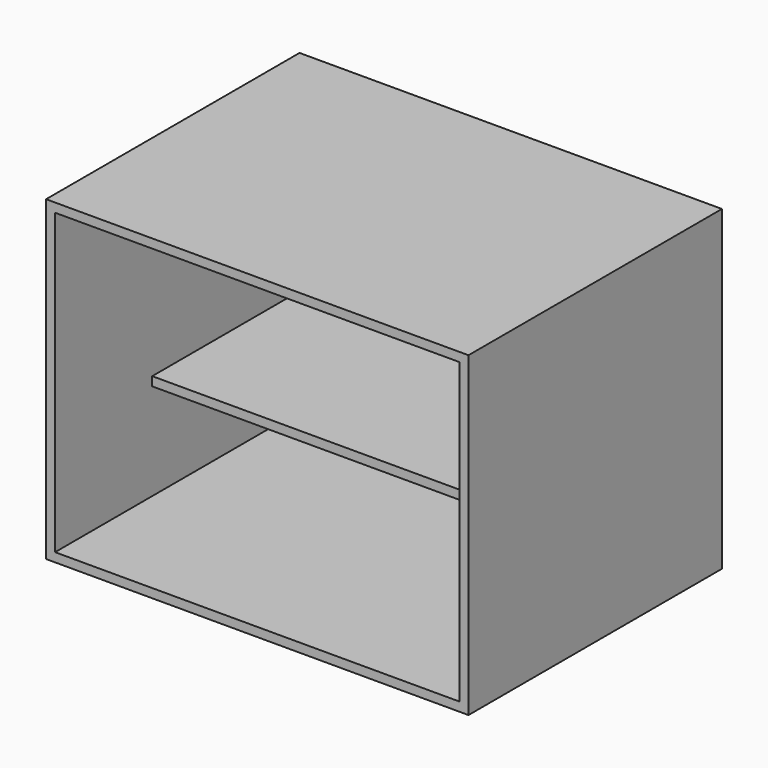
from build123d import *

# Parameters (mm, degrees)
F0_W     = 800
F0_H     = 600
F1_DEPTH = 355
F2_T     = -17
F3_W     = 800
F3_H     = 400
F4_DEPTH = 370
F5_T     = -17
F3_H_2   = 200
F6_DEPTH = 600
F7_T     = -17


with BuildPart() as f1:
    # F0 (on Front) → F1 (new body)
    with BuildSketch(Plane.XZ):
        with Locations((400, -300)):
            Rectangle(F0_W, F0_H)
    extrude(amount=F1_DEPTH)

    # F2
    f2_openings = [f1.faces().sort_by_distance(p)[0] for p in [
        (400, -355, -300),
    ]]
    offset(amount=F2_T, openings=f2_openings)


with BuildPart() as f4:
    # F3 (on Front) → F4 (new body)
    with BuildSketch(Plane.XZ):
        with Locations((400, -200)):
            Rectangle(F3_W, F3_H)
    extrude(amount=F4_DEPTH)

    # F5
    f5_openings = [f4.faces().sort_by_distance(p)[0] for p in [
        (400, -370, -200),
    ]]
    offset(amount=F5_T, openings=f5_openings)


with BuildPart() as f6:
    # F3 (on Front) → F6 (new body)
    with BuildSketch(Plane.XZ):
        with Locations((400, -200)):
            Rectangle(F3_W, F3_H)
        with Locations((400, -500)):
            Rectangle(F3_W, F3_H_2)
    extrude(amount=F6_DEPTH)

    # F7
    f7_openings = [f6.faces().sort_by_distance(p)[0] for p in [
        (400, -600, -300),
    ]]
    offset(amount=F7_T, openings=f7_openings)


solid = Compound([f1.part, f4.part, f6.part])
